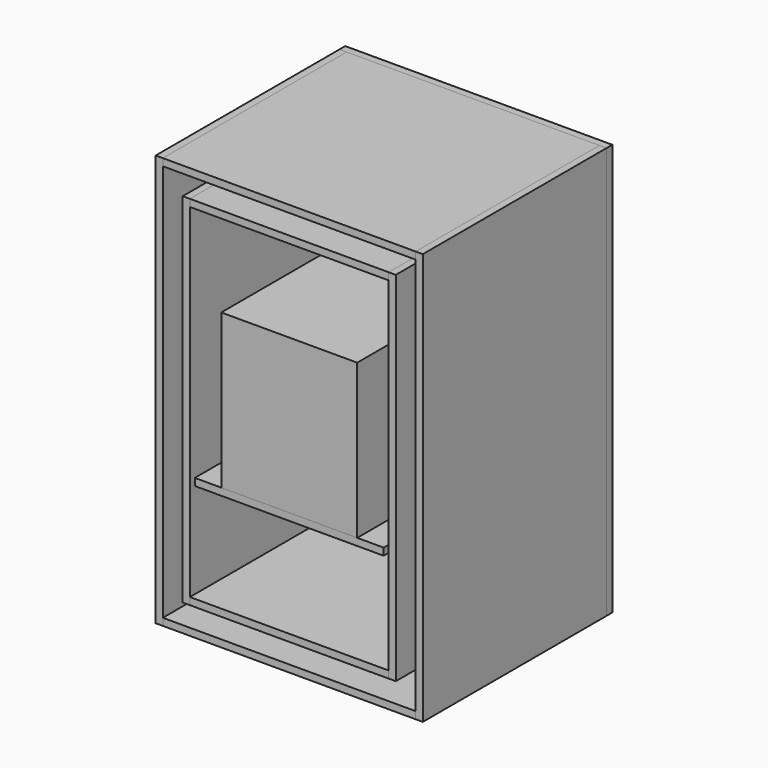
from build123d import *

# Parameters (mm, degrees)
F0_W      = 500
F0_H      = 18
F1_DEPTH  = 510
F2_DEPTH  = 500
F3_DEPTH  = 510
F4_DEPTH  = 510
F5_DEPTH  = 510
F6_W      = 342
F6_H      = 388
F7_DEPTH  = 357
F8_W      = 536
F8_H      = 900
F9_DEPTH  = 18
F10_DEPTH = 578
F0_W_2    = 636
F11_DEPTH = 578
F12_DEPTH = 578
F13_DEPTH = 578
F14_W     = 672
F14_H     = 1036
F15_DEPTH = 18


with BuildPart() as f1:
    # F0 (on Front) → F1 (new body)
    with BuildSketch(Plane.XZ):
        with Locations((0, 9)):
            Rectangle(F0_W, F0_H)
    extrude(amount=-F1_DEPTH)


with BuildPart() as f2:
    # F0 (on Front) → F2 (new body)
    with BuildSketch(Plane.XZ):
        Polygon((-237.5, 286), (-237.5, 268), (237.5, 268), (237.5, 286), (219.5, 286), (-219.5, 286), align=None)
    extrude(amount=-F2_DEPTH)


with BuildPart() as f3:
    # F0 (on Front) → F3 (new body)
    with BuildSketch(Plane.XZ):
        Polygon((-268, 0), (-250, 0), (-250, 18), (-250, 882), (-250, 900), (-268, 900), align=None)
    extrude(amount=-F3_DEPTH)


with BuildPart() as f4:
    # F0 (on Front) → F4 (new body)
    with BuildSketch(Plane.XZ):
        Polygon((250, 18), (250, 0), (268, 0), (268, 900), (250, 900), (250, 882), align=None)
    extrude(amount=-F4_DEPTH)


with BuildPart() as f5:
    # F0 (on Front) → F5 (new body)
    with BuildSketch(Plane.XZ):
        with Locations((0, 891)):
            Rectangle(F0_W, F0_H)
    extrude(amount=-F5_DEPTH)


with BuildPart() as f7:
    # F6 (on Front) → F7 (new body)
    with BuildSketch(Plane.XZ):
        with Locations((0, 480)):
            Rectangle(F6_W, F6_H)
    extrude(amount=-F7_DEPTH)


with BuildPart() as f9:
    # F8 (on face) → F9 (new body)
    with BuildSketch(Plane(origin=(0, 510, 0), x_dir=(-1, 0, 0), z_dir=(0, 1, 0))):
        with Locations((0, 450)):
            Rectangle(F8_W, F8_H)
    extrude(amount=F9_DEPTH)


with BuildPart() as f10:
    # F0 (on Front) → F10 (new body)
    with BuildSketch(Plane.XZ):
        Polygon((-318, 950), (-318, 968), (-336, 968), (-336, -68), (-318, -68), (-318, -50), align=None)
    extrude(amount=-F10_DEPTH)


with BuildPart() as f11:
    # F0 (on Front) → F11 (new body)
    with BuildSketch(Plane.XZ):
        with Locations((0, 959)):
            Rectangle(F0_W_2, F0_H)
    extrude(amount=-F11_DEPTH)


with BuildPart() as f12:
    # F0 (on Front) → F12 (new body)
    with BuildSketch(Plane.XZ):
        with Locations((0, -59)):
            Rectangle(F0_W_2, F0_H)
    extrude(amount=-F12_DEPTH)


with BuildPart() as f13:
    # F0 (on Front) → F13 (new body)
    with BuildSketch(Plane.XZ):
        Polygon((336, 968), (318, 968), (318, 950), (318, -50), (318, -68), (336, -68), align=None)
    extrude(amount=-F13_DEPTH)


with BuildPart() as f15:
    # F14 (on face) → F15 (new body)
    with BuildSketch(Plane(origin=(0, 578, 0), x_dir=(-1, 0, 0), z_dir=(0, 1, 0))):
        with Locations((0, 450)):
            Rectangle(F14_W, F14_H)
    extrude(amount=F15_DEPTH)


solid = Compound([f1.part, f2.part, f3.part, f4.part, f5.part, f7.part, f9.part, f10.part, f11.part, f12.part, f13.part, f15.part])
